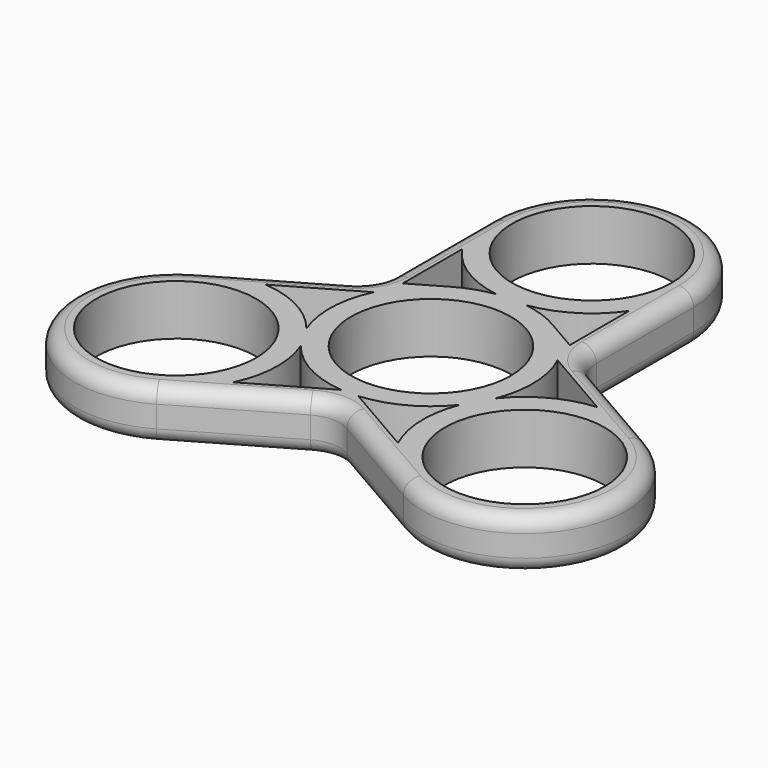
from build123d import *

# Parameters (mm, degrees)
F0_R     = 11.025
F1_DEPTH = 7
F2_R     = 2


with BuildPart() as f1:
    # F0 (on Top) → F1 (new body)
    with BuildSketch(Plane.XY):
        with BuildLine():
            ThreePointArc((14.025, 27.75), (0, 41.775), (-14.025, 27.75))
            Line((-14.025, 27.75), (-14.025, 10.984089))
            ThreePointArc((-14.025, 10.984089), (-14.694873, 8.484089), (-16.525, 6.653962))
            Line((-16.525, 6.653962), (-31.044705, -1.728994))
            ThreePointArc((-31.044705, -1.728994), (-36.178211, -20.8875), (-17.019705, -26.021006))
            Line((-17.019705, -26.021006), (-2.5, -17.638051))
            ThreePointArc((-2.5, -17.638051), (0, -16.968178), (2.5, -17.638051))
            Line((2.5, -17.638051), (17.019705, -26.021006))
            ThreePointArc((17.019705, -26.021006), (36.178211, -20.8875), (31.044705, -1.728994))
            Line((31.044705, -1.728994), (16.525, 6.653962))
            ThreePointArc((16.525, 6.653962), (14.694873, 8.484089), (14.025, 10.984089))
            Line((14.025, 10.984089), (14.025, 27.75))
        make_face()
        with Locations((-24.032205, -13.875)):
            Circle(F0_R, mode=Mode.SUBTRACT)
        with BuildLine():
            Line((-1.158934, -13.977035), (-11.348271, -19.859851))
            ThreePointArc((-11.348271, -19.859851), (-10.014308, -14.321322), (-10.993239, -8.709152))
            ThreePointArc((-10.993239, -8.709152), (-6.622422, -12.363015), (-1.158934, -13.977035))
        make_face(mode=Mode.SUBTRACT)
        with BuildLine():
            ThreePointArc((-12.683934, 5.984851), (-14.017896, 0.446322), (-13.038966, -5.165848))
            ThreePointArc((-13.038966, -5.165848), (-17.409783, -1.511985), (-22.873271, 0.102035))
            Line((-22.873271, 0.102035), (-12.683934, 5.984851))
        make_face(mode=Mode.SUBTRACT)
        with BuildLine():
            ThreePointArc((1.158934, -13.977035), (6.622422, -12.363015), (10.993239, -8.709152))
            ThreePointArc((10.993239, -8.709152), (10.014308, -14.321322), (11.348271, -19.859851))
            Line((11.348271, -19.859851), (1.158934, -13.977035))
        make_face(mode=Mode.SUBTRACT)
        with Locations((24.032205, -13.875)):
            Circle(F0_R, mode=Mode.SUBTRACT)
        Circle(F0_R, mode=Mode.SUBTRACT)
        with BuildLine():
            Line((12.683934, 5.984851), (22.873271, 0.102035))
            ThreePointArc((22.873271, 0.102035), (17.409783, -1.511985), (13.038966, -5.165848))
            ThreePointArc((13.038966, -5.165848), (14.017896, 0.446322), (12.683934, 5.984851))
        make_face(mode=Mode.SUBTRACT)
        with BuildLine():
            ThreePointArc((-11.525, 19.757816), (-7.395474, 15.833307), (-2.045727, 13.875))
            ThreePointArc((-2.045727, 13.875), (-4.610881, 13.245392), (-7.0125, 12.146006))
            Line((-7.0125, 12.146006), (-11.525, 9.540713))
            Line((-11.525, 9.540713), (-11.525, 19.757816))
        make_face(mode=Mode.SUBTRACT)
        with BuildLine():
            ThreePointArc((7.0125, 12.146006), (4.610881, 13.245392), (2.045727, 13.875))
            ThreePointArc((2.045727, 13.875), (7.395474, 15.833307), (11.525, 19.757816))
            Line((11.525, 19.757816), (11.525, 9.540713))
            Line((11.525, 9.540713), (7.0125, 12.146006))
        make_face(mode=Mode.SUBTRACT)
        with Locations((0, 27.75)):
            Circle(F0_R, mode=Mode.SUBTRACT)
    extrude(amount=F1_DEPTH)

    # F2
    f2_edges = [f1.edges().sort_by_distance(p)[0] for p in [
        (-36.178211, -20.8875, 7),
        (-9.759852, -21.829529, 7),
        (0, -16.968178, 7),
        (9.759852, -21.829529, 7),
        (36.178211, -20.8875, 7),
        (23.784852, 2.462484, 7),
        (14.694873, 8.484089, 7),
        (-23.784852, 2.462484, 7),
        (-14.694873, 8.484089, 7),
        (0, 41.775, 7),
        (14.025, 19.367044, 7),
        (-23.784852, 2.462484, 0),
        (-36.178211, -20.8875, 0),
    ]]
    fillet(f2_edges, radius=F2_R)


solid = f1.part
